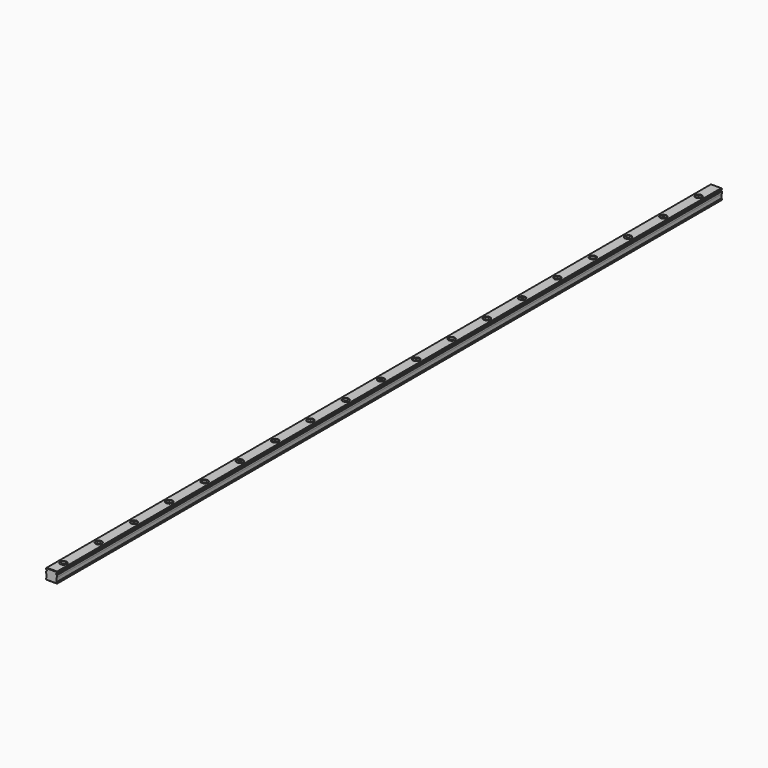
from build123d import *

# Parameters (mm, degrees)
F1_DEPTH = 1130.3
F2_R     = 2.35
F3_DEPTH = 25.4
F2_R_2   = 4
F4_DEPTH = 3.16
F5_SIZE  = 0.508


with BuildPart() as f1:
    # F0 (on Front) → F1 (new body)
    with BuildSketch(Plane.XZ):
        Polygon((-7.5311, -5.03968), (-7.5311, -7.278751), (7.5311, -7.278751), (7.5311, -5.03968), (6.868491, -5.03968), (6.868491, 0.495178), (7.5311, 0.495178), (7.5311, 3.355941), (6.916133, 3.970907), (5.987299, 3.970907), (5.987299, 5.026974), (6.916133, 5.026974), (7.5311, 5.641941), (7.5311, 7.351649), (-7.5311, 7.351649), (-7.5311, 5.641941), (-6.916133, 5.026974), (-5.987299, 5.026974), (-5.987299, 3.970907), (-6.916133, 3.970907), (-7.5311, 3.355941), (-7.5311, 0.495178), (-6.868491, 0.495178), (-6.868491, -5.03968), align=None)
    extrude(amount=F1_DEPTH)

    # F2 (on face) → F3 (cut)
    with BuildSketch(Plane.XY.offset(7.351649)):
        with Locations((0, -30.189795)):
            Circle(F2_R)
        with Locations((0, -90.189795)):
            Circle(F2_R)
        with Locations((0, -150.189795)):
            Circle(F2_R)
        with Locations((0, -210.189795)):
            Circle(F2_R)
        with Locations((0, -270.189795)):
            Circle(F2_R)
        with Locations((0, -330.189795)):
            Circle(F2_R)
        with Locations((0, -390.189795)):
            Circle(F2_R)
        with Locations((0, -450.189795)):
            Circle(F2_R)
        with Locations((0, -510.189795)):
            Circle(F2_R)
        with Locations((0, -570.189795)):
            Circle(F2_R)
        with Locations((0, -630.189795)):
            Circle(F2_R)
        with Locations((0, -690.189795)):
            Circle(F2_R)
        with Locations((0, -750.189795)):
            Circle(F2_R)
        with Locations((0, -810.189795)):
            Circle(F2_R)
        with Locations((0, -870.189795)):
            Circle(F2_R)
        with Locations((0, -930.189795)):
            Circle(F2_R)
        with Locations((0, -990.189795)):
            Circle(F2_R)
        with Locations((0, -1050.189795)):
            Circle(F2_R)
        with Locations((0, -1110.189795)):
            Circle(F2_R)
    extrude(amount=-F3_DEPTH, mode=Mode.SUBTRACT)

    # F2 (on face) → F4 (cut)
    with BuildSketch(Plane.XY.offset(7.351649)):
        with Locations((0, -1110.189795)):
            Circle(F2_R_2)
        with Locations((0, -1110.189795)):
            Circle(F2_R, mode=Mode.SUBTRACT)
        with Locations((0, -1050.189795)):
            Circle(F2_R_2)
        with Locations((0, -1050.189795)):
            Circle(F2_R, mode=Mode.SUBTRACT)
        with Locations((0, -990.189795)):
            Circle(F2_R_2)
        with Locations((0, -990.189795)):
            Circle(F2_R, mode=Mode.SUBTRACT)
        with Locations((0, -930.189795)):
            Circle(F2_R_2)
        with Locations((0, -930.189795)):
            Circle(F2_R, mode=Mode.SUBTRACT)
        with Locations((0, -870.189795)):
            Circle(F2_R_2)
        with Locations((0, -870.189795)):
            Circle(F2_R, mode=Mode.SUBTRACT)
        with Locations((0, -810.189795)):
            Circle(F2_R_2)
        with Locations((0, -810.189795)):
            Circle(F2_R, mode=Mode.SUBTRACT)
        with Locations((0, -750.189795)):
            Circle(F2_R_2)
        with Locations((0, -750.189795)):
            Circle(F2_R, mode=Mode.SUBTRACT)
        with Locations((0, -690.189795)):
            Circle(F2_R_2)
        with Locations((0, -690.189795)):
            Circle(F2_R, mode=Mode.SUBTRACT)
        with Locations((0, -630.189795)):
            Circle(F2_R_2)
        with Locations((0, -630.189795)):
            Circle(F2_R, mode=Mode.SUBTRACT)
        with Locations((0, -570.189795)):
            Circle(F2_R_2)
        with Locations((0, -570.189795)):
            Circle(F2_R, mode=Mode.SUBTRACT)
        with Locations((0, -510.189795)):
            Circle(F2_R_2)
        with Locations((0, -510.189795)):
            Circle(F2_R, mode=Mode.SUBTRACT)
        with Locations((0, -450.189795)):
            Circle(F2_R_2)
        with Locations((0, -450.189795)):
            Circle(F2_R, mode=Mode.SUBTRACT)
        with Locations((0, -390.189795)):
            Circle(F2_R_2)
        with Locations((0, -390.189795)):
            Circle(F2_R, mode=Mode.SUBTRACT)
        with Locations((0, -330.189795)):
            Circle(F2_R_2)
        with Locations((0, -330.189795)):
            Circle(F2_R, mode=Mode.SUBTRACT)
        with Locations((0, -270.189795)):
            Circle(F2_R_2)
        with Locations((0, -270.189795)):
            Circle(F2_R, mode=Mode.SUBTRACT)
        with Locations((0, -210.189795)):
            Circle(F2_R_2)
        with Locations((0, -210.189795)):
            Circle(F2_R, mode=Mode.SUBTRACT)
        with Locations((0, -150.189795)):
            Circle(F2_R_2)
        with Locations((0, -150.189795)):
            Circle(F2_R, mode=Mode.SUBTRACT)
        with Locations((0, -90.189795)):
            Circle(F2_R_2)
        with Locations((0, -90.189795)):
            Circle(F2_R, mode=Mode.SUBTRACT)
        with Locations((0, -30.189795)):
            Circle(F2_R_2)
        with Locations((0, -30.189795)):
            Circle(F2_R, mode=Mode.SUBTRACT)
    extrude(amount=-F4_DEPTH, mode=Mode.SUBTRACT)

    # F5
    f5_edges = [f1.edges().sort_by_distance(p)[0] for p in [
        (7.5311, -565.15, 7.351649),
        (0, 0, 7.351649),
        (0, -1130.3, 7.351649),
        (-7.5311, -565.15, 7.351649),
        (-4, -1110.189795, 7.351649),
        (-4, -1050.189795, 7.351649),
        (-4, -990.189795, 7.351649),
        (-4, -930.189795, 7.351649),
        (-4, -870.189795, 7.351649),
        (-4, -810.189795, 7.351649),
        (-4, -750.189795, 7.351649),
        (-4, -690.189795, 7.351649),
        (-4, -630.189795, 7.351649),
        (-4, -570.189795, 7.351649),
        (-4, -510.189795, 7.351649),
        (-4, -450.189795, 7.351649),
        (-4, -390.189795, 7.351649),
        (-4, -330.189795, 7.351649),
        (-4, -270.189795, 7.351649),
        (-4, -210.189795, 7.351649),
        (-4, -150.189795, 7.351649),
        (-4, -90.189795, 7.351649),
        (-4, -30.189795, 7.351649),
        (-7.5311, -565.15, -7.278751),
        (0, 0, -7.278751),
        (0, -1130.3, -7.278751),
        (7.5311, -565.15, -7.278751),
        (-2.35, -1110.189795, -7.278751),
        (-2.35, -1050.189795, -7.278751),
        (-2.35, -990.189795, -7.278751),
        (-2.35, -930.189795, -7.278751),
        (-2.35, -870.189795, -7.278751),
        (-2.35, -810.189795, -7.278751),
        (-2.35, -750.189795, -7.278751),
        (-2.35, -690.189795, -7.278751),
        (-2.35, -630.189795, -7.278751),
        (-2.35, -570.189795, -7.278751),
        (-2.35, -510.189795, -7.278751),
        (-2.35, -450.189795, -7.278751),
        (-2.35, -390.189795, -7.278751),
        (-2.35, -330.189795, -7.278751),
        (-2.35, -270.189795, -7.278751),
        (-2.35, -210.189795, -7.278751),
        (-2.35, -150.189795, -7.278751),
        (-2.35, -90.189795, -7.278751),
        (-2.35, -30.189795, -7.278751),
    ]]
    chamfer(f5_edges, length=F5_SIZE)


solid = f1.part
